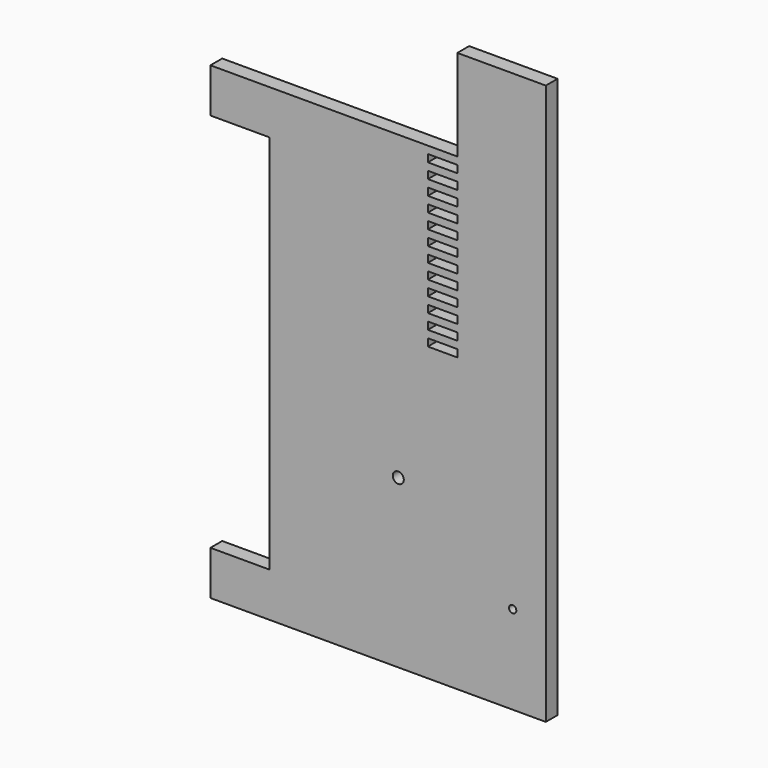
from build123d import *

# Parameters (mm, degrees)
F1_DEPTH = 12.7
F2_R     = 6.35
F3_DEPTH = 25.4
F4_R     = 9.525
F5_DEPTH = 25.4
F6_W     = 50.8
F6_H     = 12.7
F7_DEPTH = 25.4


with BuildPart() as f1:
    # F0 (on Front) → F1 (new body, symmetric)
    with BuildSketch(Plane.XZ):
        Polygon((-288.925, -406.4), (-288.925, -482.6), (288.925, -482.6), (288.925, 482.6), (136.525, 482.6), (136.525, 325.4375), (-288.925, 325.4375), (-288.925, 249.2375), (-187.325, 249.2375), (-187.325, -406.4), align=None)
    extrude(amount=F1_DEPTH, both=True)

    # F2 (on face) → F3 (cut)
    with BuildSketch(Plane.XZ.offset(12.7)):
        with Locations((231.775, -330.2)):
            Circle(F2_R)
    extrude(amount=-F3_DEPTH, mode=Mode.SUBTRACT)

    # F4 (on face) → F5 (cut)
    with BuildSketch(Plane.XZ.offset(12.7)):
        with Locations((34.759605, -194.841525)):
            Circle(F4_R)
    extrude(amount=-F5_DEPTH, mode=Mode.SUBTRACT)

    # F6 (on face) → F7 (cut)
    with BuildSketch(Plane.XZ.offset(12.7)):
        with Locations((111.125, 306.3875)):
            Rectangle(F6_W, F6_H)
        with Locations((111.125, 280.9875)):
            Rectangle(F6_W, F6_H)
        with Locations((111.125, 255.5875)):
            Rectangle(F6_W, F6_H)
        with Locations((111.125, 230.1875)):
            Rectangle(F6_W, F6_H)
        with Locations((111.125, 204.7875)):
            Rectangle(F6_W, F6_H)
        with Locations((111.125, 179.3875)):
            Rectangle(F6_W, F6_H)
        with Locations((111.125, 153.9875)):
            Rectangle(F6_W, F6_H)
        with Locations((111.125, 128.5875)):
            Rectangle(F6_W, F6_H)
        with Locations((111.125, 103.1875)):
            Rectangle(F6_W, F6_H)
        with Locations((111.125, 77.7875)):
            Rectangle(F6_W, F6_H)
        with Locations((111.125, 52.3875)):
            Rectangle(F6_W, F6_H)
        with Locations((111.125, 26.9875)):
            Rectangle(F6_W, F6_H)
    extrude(amount=-F7_DEPTH, mode=Mode.SUBTRACT)


solid = f1.part
